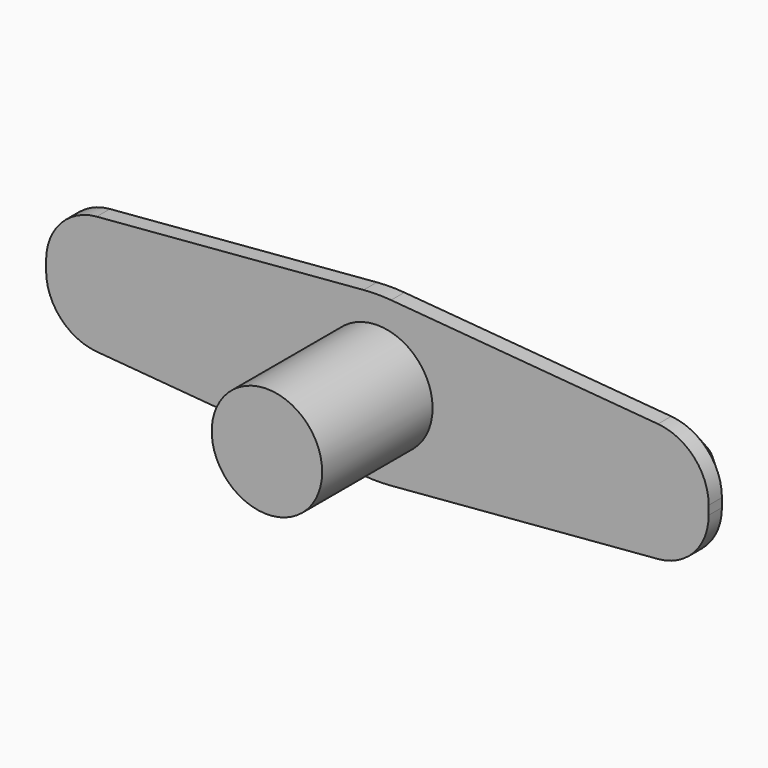
from build123d import *

# Parameters (mm, degrees)
F0_R     = 10
F1_DEPTH = 25
F3_DEPTH = 10
F4_SIZE  = 7


with BuildPart() as f1:
    # F0 (on Front) → F1 (new body)
    with BuildSketch(Plane.XZ):
        Circle(F0_R)
    extrude(amount=F1_DEPTH)

    # F2 (on Front) → F3 (join)
    with BuildSketch(Plane.XZ):
        with BuildLine():
            Line((-50.8304547985, -10.7641287668), (-2.4913643956, -14.7923863004))
            ThreePointArc((-2.4913643956, -14.7923863004), (0, -14.896013553), (2.4913643956, -14.7923863004))
            Line((2.4913643956, -14.7923863004), (50.8304547985, -10.7641287668))
            ThreePointArc((50.8304547985, -10.7641287668), (57.3588228673, -7.5697660742), (60, -0.7986711843))
            Line((60, -0.7986711843), (60, 0.7986711843))
            ThreePointArc((60, 0.7986711843), (57.3588228673, 7.5697660742), (50.8304547985, 10.7641287668))
            Line((50.8304547985, 10.7641287668), (2.4913643956, 14.7923863004))
            ThreePointArc((2.4913643956, 14.7923863004), (0, 14.896013553), (-2.4913643956, 14.7923863004))
            Line((-2.4913643956, 14.7923863004), (-50.8304547985, 10.7641287668))
            ThreePointArc((-50.8304547985, 10.7641287668), (-57.3588228673, 7.5697660742), (-60, 0.7986711843))
            Line((-60, 0.7986711843), (-60, -0.7986711843))
            ThreePointArc((-60, -0.7986711843), (-57.3588228673, -7.5697660742), (-50.8304547985, -10.7641287668))
        make_face()
    extrude(amount=-F3_DEPTH)

    # F4
    f4_edges = [f1.edges().sort_by_distance(p)[0] for p in [
        (-26.66091, 10, -12.778258),
        (0, 10, -14.896014),
        (26.66091, 10, -12.778258),
        (57.358823, 10, -7.569766),
        (60, 10, 0),
        (57.358823, 10, 7.569766),
        (26.66091, 10, 12.778258),
        (0, 10, 14.896014),
        (-26.66091, 10, 12.778258),
        (-57.358823, 10, 7.569766),
        (-60, 10, 0),
        (-57.358823, 10, -7.569766),
    ]]
    chamfer(f4_edges, length=F4_SIZE)


solid = f1.part
